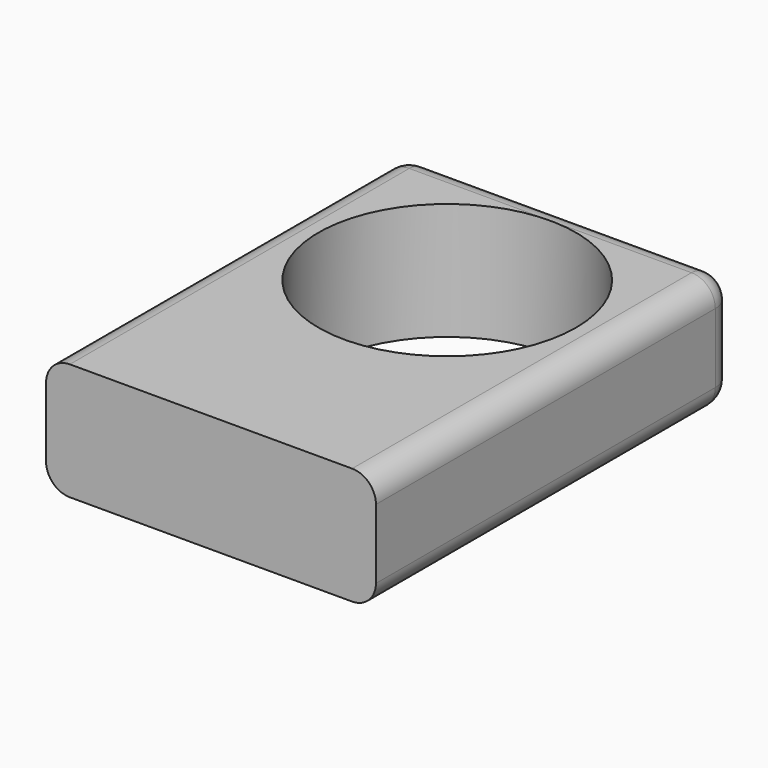
from build123d import *

# Parameters (mm, degrees)
F0_W     = 70.4432
F0_H     = 95.6654
F0_R     = 27.5
F1_DEPTH = 25
F2_R     = 5.08


with BuildPart() as f1:
    # F0 (on Top) → F1 (new body)
    with BuildSketch(Plane.XY):
        with Locations((0, -15.2273)):
            Rectangle(F0_W, F0_H)
        Circle(F0_R, mode=Mode.SUBTRACT)
    extrude(amount=F1_DEPTH)

    # F2
    f2_edges = [f1.edges().sort_by_distance(p)[0] for p in [
        (35.2216, -15.2273, 25),
        (35.2216, -15.2273, 0),
        (-35.2216, -15.2273, 25),
        (-35.2216, -15.2273, 0),
        (-35.2216, 32.6054, 12.5),
        (35.2216, 32.6054, 12.5),
        (0, 32.6054, 25),
        (0, 32.6054, 0),
    ]]
    fillet(f2_edges, radius=F2_R)


solid = f1.part
